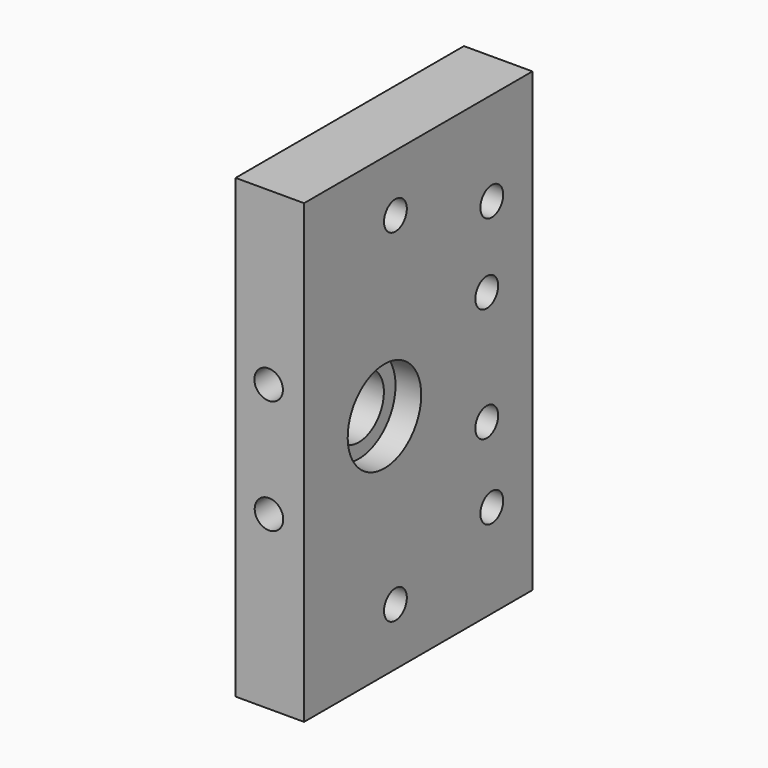
from build123d import *

# Parameters (mm, degrees)
SKETCH010_W     = 80
SKETCH010_H     = 50
SKETCH010_R     = 2.5
SKETCH010_R_2   = 5.5
PAD002_DEPTH    = 12
SKETCH011_R     = 2.5
POCKET006_DEPTH = 11
SKETCH012_R     = 8.05
POCKET007_DEPTH = 4.5
SKETCH013_R     = 4.6
SKETCH013_R_2   = 4.624594
SKETCH013_R_3   = 4.583454
SKETCH013_R_4   = 4.624604
POCKET008_DEPTH = 1.55


with BuildPart() as part:
    # Sketch010 → Pad002 (new body)
    with BuildSketch(Plane(origin=(-92, -50, 80), x_dir=(0, 0, 1), z_dir=(1, 0, 0))):
        with Locations((40, 25)):
            Rectangle(SKETCH010_W, SKETCH010_H)
        with Locations((10, 30)):
            Circle(SKETCH010_R, mode=Mode.SUBTRACT)
        with Locations((30, 10)):
            Circle(SKETCH010_R, mode=Mode.SUBTRACT)
        with Locations((16.4, 8.9)):
            Circle(SKETCH010_R, mode=Mode.SUBTRACT)
        with Locations((50, 10)):
            Circle(SKETCH010_R, mode=Mode.SUBTRACT)
        with Locations((63.6, 8.9)):
            Circle(SKETCH010_R, mode=Mode.SUBTRACT)
        with Locations((70, 30)):
            Circle(SKETCH010_R, mode=Mode.SUBTRACT)
        with Locations((40, 32.4)):
            Circle(SKETCH010_R_2, mode=Mode.SUBTRACT)
    extrude(amount=PAD002_DEPTH)

    # Sketch011 → Pocket006 (cut)
    with BuildSketch(Plane(origin=(-92, -100, 80), x_dir=(0, 0, -1), z_dir=(0, -1, 0))):
        with Locations((-30.033846, 5.850095)):
            Circle(SKETCH011_R)
        with Locations((-50.003807, 5.788844)):
            Circle(SKETCH011_R)
    extrude(amount=-POCKET006_DEPTH, mode=Mode.SUBTRACT)

    # Sketch012 → Pocket007 (cut)
    with BuildSketch(Plane(origin=(-80, -50, 80), x_dir=(0, 0, 1), z_dir=(1, 0, 0))):
        with Locations((40, 32.4)):
            Circle(SKETCH012_R)
    extrude(amount=-POCKET007_DEPTH, mode=Mode.SUBTRACT)

    # Sketch013 → Pocket008 (cut)
    with BuildSketch(Plane(origin=(-92, -50, 80), x_dir=(0, 0, 1), z_dir=(-1, 0, 0))):
        with Locations((10, -30)):
            Circle(SKETCH013_R)
        with Locations((70, -30)):
            Circle(SKETCH013_R_2)
        with Locations((30, -10)):
            Circle(SKETCH013_R_3)
        with Locations((50, -10)):
            Circle(SKETCH013_R_4)
    extrude(amount=-POCKET008_DEPTH, mode=Mode.SUBTRACT)


solid = part.part
